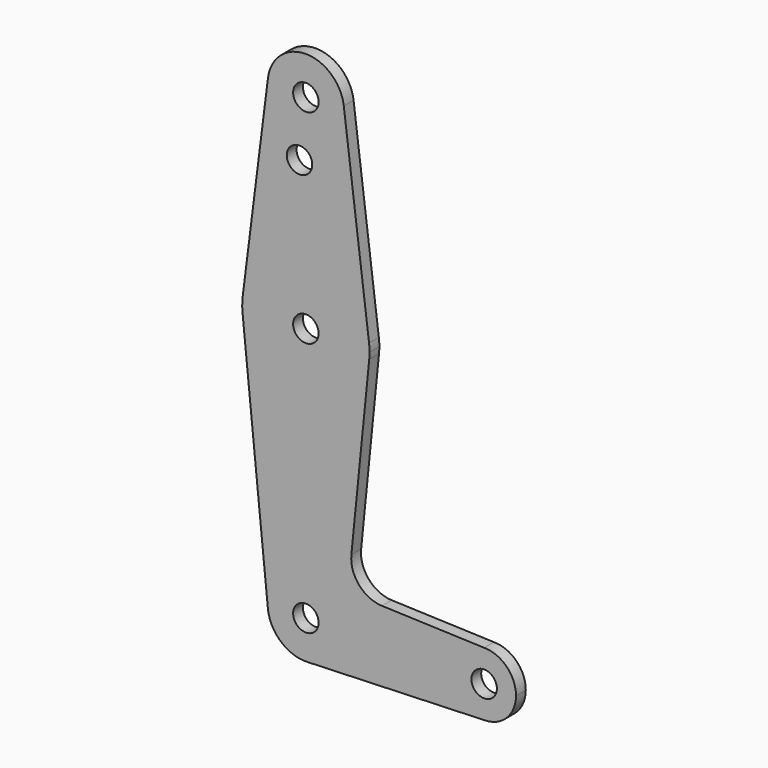
from build123d import *

# Parameters (mm, degrees)
F0_R     = 3.175
F1_DEPTH = 3.048


with BuildPart() as f1:
    # F0 (on Front) → F1 (new body)
    with BuildSketch(Plane.XZ):
        with BuildLine():
            ThreePointArc((-9.477256, -0.9525), (-0.476848, 9.513057), (9.525, 0))
            ThreePointArc((9.525, 0), (6.854408, -6.613827), (0.340179, -9.518924))
            Line((0.340179, -9.518924), (44.733482, -7.932436))
            ThreePointArc((44.733482, -7.932436), (36.513766, -0.141764), (44.45, 7.9375))
            Line((44.45, 7.9375), (18.966474, 8.851134))
            ThreePointArc((18.966474, 8.851134), (13.260686, 11.569571), (11.340972, 17.59125))
            Line((11.340972, 17.59125), (15.795426, 61.9125))
            ThreePointArc((15.795426, 61.9125), (0, 47.625), (-15.795426, 61.9125))
            Line((-15.795426, 61.9125), (-9.477256, -0.9525))
        make_face()
        with BuildLine():
            ThreePointArc((0.340179, -9.518924), (6.854408, -6.613827), (9.525, 0))
            ThreePointArc((9.525, 0), (-0.476848, 9.513057), (-9.477256, -0.9525))
            ThreePointArc((-9.477256, -0.9525), (-6.262384, -7.17692), (0.340179, -9.518924))
        make_face()
        Circle(F0_R, mode=Mode.SUBTRACT)
        with BuildLine():
            ThreePointArc((44.45, 7.9375), (36.513766, -0.141764), (44.733482, -7.932436))
            ThreePointArc((44.733482, -7.932436), (50.162007, -5.511523), (52.3875, 0))
            ThreePointArc((52.3875, 0), (50.06266, 5.61266), (44.45, 7.9375))
        make_face()
        with Locations((44.45, 0)):
            Circle(F0_R, mode=Mode.SUBTRACT)
        with BuildLine():
            ThreePointArc((9.450293, 115.490625), (0, 123.825), (-9.450293, 115.490625))
            ThreePointArc((-9.450293, 115.490625), (-0.596483, 104.793695), (9.525, 114.3))
            ThreePointArc((9.525, 114.3), (9.506305, 114.896483), (9.450293, 115.490625))
        make_face()
        with Locations((0, 114.3)):
            Circle(F0_R, mode=Mode.SUBTRACT)
        with BuildLine():
            Line((-9.450293, 115.490625), (-15.750488, 65.484375))
            ThreePointArc((-15.750488, 65.484375), (0, 79.375), (15.750488, 65.484375))
            Line((15.750488, 65.484375), (9.450293, 115.490625))
            ThreePointArc((9.450293, 115.490625), (9.506305, 114.896483), (9.525, 114.3))
            ThreePointArc((9.525, 114.3), (-0.596483, 104.793695), (-9.450293, 115.490625))
        make_face()
        with Locations((-1.5875, 100.0252)):
            Circle(F0_R, mode=Mode.SUBTRACT)
        with BuildLine():
            ThreePointArc((-15.750488, 65.484375), (-15.873744, 63.699705), (-15.795426, 61.9125))
            ThreePointArc((-15.795426, 61.9125), (0, 47.625), (15.795426, 61.9125))
            ThreePointArc((15.795426, 61.9125), (15.855094, 62.705253), (15.875, 63.5))
            ThreePointArc((15.875, 63.5), (15.843841, 64.494139), (15.750488, 65.484375))
            ThreePointArc((15.750488, 65.484375), (0, 79.375), (-15.750488, 65.484375))
        make_face()
        with Locations((0, 63.5)):
            Circle(F0_R, mode=Mode.SUBTRACT)
    extrude(amount=F1_DEPTH)


solid = f1.part
